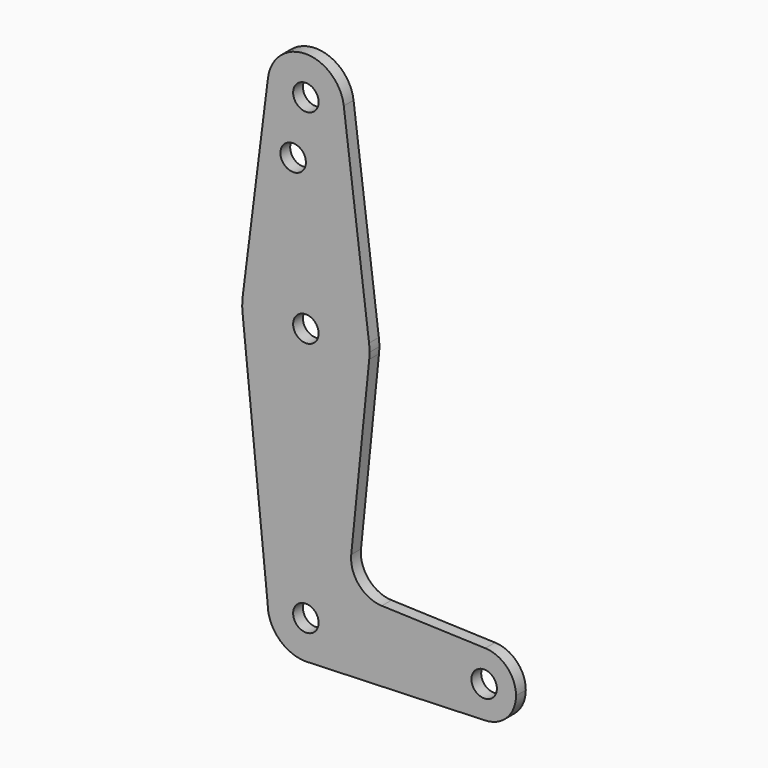
from build123d import *

# Parameters (mm, degrees)
F0_R     = 3.175
F1_DEPTH = 3.048


with BuildPart() as f1:
    # F0 (on Front) → F1 (new body)
    with BuildSketch(Plane.XZ):
        with BuildLine():
            ThreePointArc((0.677344, -9.500886), (6.970557, -6.491299), (9.525, 0))
            ThreePointArc((9.525, 0), (6.970557, 6.491299), (0.677344, 9.500886))
            Line((0.677344, 9.500886), (0, 9.525))
            ThreePointArc((0, 9.525), (-6.735192, 6.735192), (-9.525, 0))
            ThreePointArc((-9.525, 0), (-6.735192, -6.735192), (0, -9.525))
            Line((0, -9.525), (0.677344, -9.500886))
        make_face()
        Circle(F0_R, mode=Mode.SUBTRACT)
        with BuildLine():
            ThreePointArc((0.677344, 9.500886), (6.970557, 6.491299), (9.525, 0))
            ThreePointArc((9.525, 0), (6.970557, -6.491299), (0.677344, -9.500886))
            Line((0.677344, -9.500886), (44.732405, -7.932475))
            ThreePointArc((44.732405, -7.932475), (36.5125, 0), (44.732405, 7.932475))
            Line((44.732405, 7.932475), (18.934103, 8.850924))
            ThreePointArc((18.934103, 8.850924), (13.224974, 11.57098), (11.307223, 17.59718))
            Line((11.307223, 17.59718), (15.794203, 61.90038))
            ThreePointArc((15.794203, 61.90038), (0, 47.625), (-15.794203, 61.90038))
            Line((-15.794203, 61.90038), (-9.525, 0))
            ThreePointArc((-9.525, 0), (-6.735192, 6.735192), (0, 9.525))
            ThreePointArc((0, 9.525), (0.338886, 9.51897), (0.677344, 9.500886))
        make_face()
        with BuildLine():
            ThreePointArc((0, -9.525), (0.338886, -9.51897), (0.677344, -9.500886))
            Line((0.677344, -9.500886), (0, -9.525))
        make_face()
        with BuildLine():
            ThreePointArc((44.732405, 7.932475), (36.5125, 0), (44.732405, -7.932475))
            ThreePointArc((44.732405, -7.932475), (50.161633, -5.51191), (52.3875, 0))
            ThreePointArc((52.3875, 0), (50.161633, 5.51191), (44.732405, 7.932475))
        make_face()
        with Locations((44.45, 0)):
            Circle(F0_R, mode=Mode.SUBTRACT)
        with BuildLine():
            ThreePointArc((-15.750488, 65.484375), (-15.873819, 63.693615), (-15.794203, 61.90038))
            ThreePointArc((-15.794203, 61.90038), (0, 47.625), (15.794203, 61.90038))
            ThreePointArc((15.794203, 61.90038), (15.854788, 62.699171), (15.875, 63.5))
            ThreePointArc((15.875, 63.5), (15.843841, 64.494139), (15.750488, 65.484375))
            ThreePointArc((15.750488, 65.484375), (0, 79.375), (-15.750488, 65.484375))
        make_face()
        with Locations((0, 63.5)):
            Circle(F0_R, mode=Mode.SUBTRACT)
        with BuildLine():
            Line((-9.450293, 115.490625), (-15.750488, 65.484375))
            ThreePointArc((-15.750488, 65.484375), (0, 79.375), (15.750488, 65.484375))
            Line((15.750488, 65.484375), (9.450293, 115.490625))
            ThreePointArc((9.450293, 115.490625), (9.506305, 114.896483), (9.525, 114.3))
            ThreePointArc((9.525, 114.3), (-0.596483, 104.793695), (-9.450293, 115.490625))
        make_face()
        with Locations((-3.175, 100.0252)):
            Circle(F0_R, mode=Mode.SUBTRACT)
        with BuildLine():
            ThreePointArc((9.450293, 115.490625), (0, 123.825), (-9.450293, 115.490625))
            ThreePointArc((-9.450293, 115.490625), (-0.596483, 104.793695), (9.525, 114.3))
            ThreePointArc((9.525, 114.3), (9.506305, 114.896483), (9.450293, 115.490625))
        make_face()
        with Locations((0, 114.3)):
            Circle(F0_R, mode=Mode.SUBTRACT)
    extrude(amount=F1_DEPTH)


solid = f1.part
